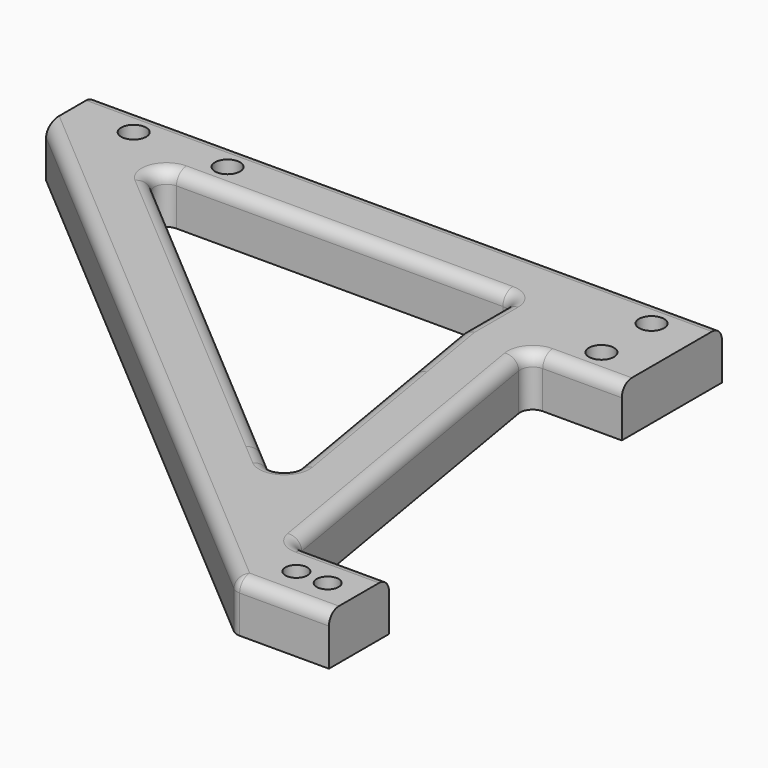
from build123d import *

# Parameters (mm, degrees)
F0_R      = 2
F1_DEPTH  = 10
F2_R      = 5
F4_R      = 2
F5_DEPTH  = 10
F7_R      = 5
F7_2_R    = 5
F8_R      = 2
F8_2_R    = 2
F10_DEPTH = 25
F11_R     = 1.5
F12_R     = 1.75
F13_DEPTH = 12.5
F15_W     = 9
F15_H     = 20
F16_DEPTH = 10
F17_W     = 6
F17_H     = 20
F18_DEPTH = 25
F21_R     = 2
F22_DEPTH = 30
F24_R     = 2
F25_DEPTH = 12.5
F27_R     = 2
F28_R     = 2
F29_DEPTH = 8
F30_R     = 2
F31_R     = 2
F32_R     = 1.75
F33_DEPTH = 25
F32_R_2   = 2
F37_ANGLE = 90
F40_W     = 60
F40_H     = 10
F40_R     = 2
F41_DEPTH = 8
F43_R     = 1.5


with BuildPart() as f1:
    # F0 (on Top) → F1 (new body)
    with BuildSketch(Plane.XY):
        Polygon((0, 70), (0, 75), (-20, 75), (-30, 75), (-50, -75), (-40, -75), (0, -75), (0, -65), (-38.6666666667, -65), (-30.8, -6), (0, -6), (0, 0), (0, 6), (-29.2, 6), (-21.3333333333, 65), (0, 65), align=None)
        with Locations((-15, 0)):
            Circle(F0_R, mode=Mode.SUBTRACT)
        with Locations((-10.4101235047, 70)):
            Circle(F0_R, mode=Mode.SUBTRACT)
    extrude(amount=F1_DEPTH)

    # F2
    f2_edges = [f1.edges().sort_by_distance(p)[0] for p in [
        (-21.333333, 65, 5),
        (-30.8, -6, 5),
        (-29.2, 6, 5),
        (-38.666667, -65, 5),
        (-50, -75, 5),
    ]]
    fillet(f2_edges, radius=F2_R)

    # F3: F1 across plane


with BuildPart() as f1_1:
    add(f1.part)
    add(f1.part.mirror(Plane.YZ))

    # F4 (on Top) → F5 (join)
    with BuildSketch(Plane.XY):
        with BuildLine():
            Line((0, 80), (0, 75))
            Line((0, 75), (10, 75))
            Line((10, 75), (30, 75))
            Line((30, 75), (13.3333333333, 200))
            Line((13.3333333333, 200), (4.5, 200))
            Line((4.5, 200), (4.5, 192))
            ThreePointArc((4.5, 192), (3.1819805153, 188.8180194847), (0, 187.5))
            Line((0, 187.5), (0, 170.1721444783))
            Line((0, 170.1721444783), (7.3103807362, 170.1721444783))
            Line((7.3103807362, 170.1721444783), (10, 150))
            Line((10, 150), (18.6666666667, 85))
            Line((18.6666666667, 85), (10, 85))
            Line((10, 85), (0, 85))
            Line((0, 85), (0, 80))
        make_face()
        with Locations((10, 80)):
            Circle(F4_R, mode=Mode.SUBTRACT)
    extrude(amount=F5_DEPTH)


with BuildPart() as f6_1:
    # F6: instance of F1
    add(f1_1.part.mirror(Plane.YZ))

    # F7
    f7_edges = [f6_1.edges().sort_by_distance(p)[0] for p in [
        (-7.310381, 170.172144, 5),
        (-18.666667, 85, 5),
        (-13.333333, 200, 5),
    ]]
    fillet(f7_edges, radius=F7_R)

    # F8#2
    f8_2_edges = [f6_1.edges().sort_by_distance(p)[0] for p in [
        (-4.5, 200, 5),
    ]]
    fillet(f8_2_edges, radius=F8_2_R)


with BuildPart() as f1_2:
    add(f1_1.part)

    # F7#2
    f7_2_edges = [f1_2.edges().sort_by_distance(p)[0] for p in [
        (7.310381, 170.172144, 5),
        (18.666667, 85, 5),
        (13.333333, 200, 5),
    ]]
    fillet(f7_2_edges, radius=F7_2_R)

    # F8
    f8_edges = [f1_2.edges().sort_by_distance(p)[0] for p in [
        (4.5, 200, 5),
    ]]
    fillet(f8_edges, radius=F8_R)

    add(f6_1.part)  # F10 merges F6_1
    # F9 (on Top) → F10 (join)
    with BuildSketch(Plane.XY):
        Polygon((0, -6), (0, 0), (0, 6), (-6, 6), (-6, -6), align=None)
    extrude(amount=F10_DEPTH)

    # F11
    f11_edges = [f1_2.edges().sort_by_distance(p)[0] for p in [
        (-6, -6, 17.5),
        (-6, 0, 25),
        (-3, -6, 25),
        (-6, 6, 17.5),
        (-3, 6, 25),
    ]]
    fillet(f11_edges, radius=F11_R)


with BuildPart() as f13:
    # F12 (on Right) → F13 (new body, symmetric)
    with BuildSketch(Plane.YZ):
        with Locations((0, 20)):
            Circle(F12_R)
    extrude(amount=F13_DEPTH, both=True)


with BuildPart() as f13b:
    # F12 (on Right) → F13, piece 2 (new body, symmetric)
    with BuildSketch(Plane.YZ):
        with Locations((0, 15)):
            Circle(F12_R)
    extrude(amount=F13_DEPTH, both=True)


with BuildPart() as f1_3:
    add(f1_2.part)

    # F14: cut F13b, F13
    add(f13b.part, mode=Mode.SUBTRACT)
    add(f13.part, mode=Mode.SUBTRACT)


with BuildPart() as f16:
    # F15 (on Top) → F16 (new body)
    with BuildSketch(Plane.XY):
        Polygon((0, 65), (15, 65), (15, 85), (0, 85), (0, 75), align=None)
        Polygon((-6, 65), (0, 65), (0, 75), (0, 85), (-6, 85), align=None)
        with Locations((-10.5, 75)):
            Rectangle(F15_W, F15_H)
    extrude(amount=F16_DEPTH)


with BuildPart() as f18:
    # F17 (on Top) → F18 (new body)
    with BuildSketch(Plane.XY):
        with Locations((-3, 75)):
            Rectangle(F17_W, F17_H)
    extrude(amount=F18_DEPTH)


with BuildPart() as f16_1:
    add(f16.part)

    # F19: union F18
    add(f18.part)


with BuildPart() as f16_2:
    # F20: moved
    add(f16_1.part.moved(Location((0, 0, 10))))


with BuildPart() as f22:
    # F21 (on Top) → F22 (new body)
    with BuildSketch(Plane.XY):
        with Locations((-10, 80)):
            Circle(F21_R)
    extrude(amount=F22_DEPTH)


with BuildPart() as f22b:
    # F21 (on Top) → F22, piece 2 (new body)
    with BuildSketch(Plane.XY):
        with Locations((10, 80)):
            Circle(F21_R)
    extrude(amount=F22_DEPTH)


with BuildPart() as f22c:
    # F21 (on Top) → F22, piece 3 (new body)
    with BuildSketch(Plane.XY):
        with Locations((-10.4, 70)):
            Circle(F21_R)
    extrude(amount=F22_DEPTH)


with BuildPart() as f22d:
    # F21 (on Top) → F22, piece 4 (new body)
    with BuildSketch(Plane.XY):
        with Locations((10.4, 70)):
            Circle(F21_R)
    extrude(amount=F22_DEPTH)


with BuildPart() as f16_3:
    add(f16_2.part)

    # F23: cut F22d, F22c, F22b, F22
    add(f22d.part, mode=Mode.SUBTRACT)
    add(f22c.part, mode=Mode.SUBTRACT)
    add(f22b.part, mode=Mode.SUBTRACT)
    add(f22.part, mode=Mode.SUBTRACT)


with BuildPart() as f25:
    # F24 (on Right) → F25 (new body, symmetric)
    with BuildSketch(Plane.YZ):
        with Locations((80, 27.2266920656)):
            Circle(F24_R)
    extrude(amount=F25_DEPTH, both=True)


with BuildPart() as f25b:
    # F24 (on Right) → F25, piece 2 (new body, symmetric)
    with BuildSketch(Plane.YZ):
        with Locations((70, 27.2266920656)):
            Circle(F24_R)
    extrude(amount=F25_DEPTH, both=True)


with BuildPart() as f16_4:
    add(f16_3.part)

    # F26: cut F25b, F25
    add(f25b.part, mode=Mode.SUBTRACT)
    add(f25.part, mode=Mode.SUBTRACT)

    # F27
    f27_edges = [f16_4.edges().sort_by_distance(p)[0] for p in [
        (-6, 65, 27.5),
        (-3, 65, 35),
        (-10.5, 65, 20),
        (-15, 65, 15),
        (7.5, 65, 20),
        (15, 65, 15),
        (15, 75, 10),
        (-15, 75, 10),
        (-6, 75, 35),
        (-10.5, 85, 20),
        (-15, 85, 15),
        (-6, 85, 27.5),
        (-3, 85, 35),
        (7.5, 85, 20),
        (15, 85, 15),
    ]]
    fillet(f27_edges, radius=F27_R)


with BuildPart() as f29:
    # F28 (on Right) → F29 (new body)
    with BuildSketch(Plane.YZ):
        Polygon((-6, 10), (0, 10), (6, 10), (6, 25), (65, 35), (65, 20), (75, 20), (85, 20), (85, 35), (85, 120), (75, 120), (-6, 25), align=None)
        Polygon((17.4430621123, 37.0821219176), (23.9249371816, 44.6843210729), (75, 104.5871725266), (75, 45), (64.1585427985, 45), (51.9163602293, 42.9250538018), align=None, mode=Mode.SUBTRACT)
        with Locations((80, 95)):
            Circle(F28_R, mode=Mode.SUBTRACT)
        with Locations((80, 110)):
            Circle(F28_R, mode=Mode.SUBTRACT)
    extrude(amount=F29_DEPTH)

    # F30
    f30_edges = [f29.edges().sort_by_distance(p)[0] for p in [
        (4, 75, 104.587173),
        (4, 75, 45),
        (4, 17.443062, 37.082122),
        (4, 65, 35),
        (4, 6, 25),
        (4, -6, 25),
    ]]
    fillet(f30_edges, radius=F30_R)

    # F31
    f31_edges = [f29.edges().sort_by_distance(p)[0] for p in [
        (8, 46.246648, 70.864105),
        (8, 34.73905, 72.780367),
        (8, 35.165784, 29.943353),
        (8, 85, 70),
    ]]
    fillet(f31_edges, radius=F31_R)


with BuildPart() as f33:
    # F32 (on Right) → F33 (new body)
    with BuildSketch(Plane.YZ):
        with Locations((0, 20)):
            Circle(F32_R)
    extrude(amount=F33_DEPTH)


with BuildPart() as f33b:
    # F32 (on Right) → F33, piece 2 (new body)
    with BuildSketch(Plane.YZ):
        with Locations((0, 15)):
            Circle(F32_R)
    extrude(amount=F33_DEPTH)


with BuildPart() as f33c:
    # F32 (on Right) → F33, piece 3 (new body)
    with BuildSketch(Plane.YZ):
        with Locations((70, 27.25)):
            Circle(F32_R_2)
    extrude(amount=F33_DEPTH)


with BuildPart() as f33d:
    # F32 (on Right) → F33, piece 4 (new body)
    with BuildSketch(Plane.YZ):
        with Locations((80, 27.25)):
            Circle(F32_R_2)
    extrude(amount=F33_DEPTH)


with BuildPart() as f29_1:
    add(f29.part)

    # F34: cut F33d, F33c, F33b, F33
    add(f33d.part, mode=Mode.SUBTRACT)
    add(f33c.part, mode=Mode.SUBTRACT)
    add(f33b.part, mode=Mode.SUBTRACT)
    add(f33.part, mode=Mode.SUBTRACT)


with BuildPart() as f29_2:
    # F37: moved
    add(f29_1.part.rotate(Axis((0, -39.3833108246, 0), (0, -1, 0)), F37_ANGLE))


with BuildPart() as f29_3:
    # F38: moved
    add(f29_2.part.moved(Location((120, -60, 0))))


with BuildPart() as f39_1:
    # F39: instance of F29
    add(f29_3.part.mirror(Plane.YZ))


with BuildPart() as f41:
    # F40 (on Top) → F41 (new body)
    with BuildSketch(Plane.XY):
        with Locations((0, 20)):
            Rectangle(F40_W, F40_H)
        with Locations((-25, 20)):
            Circle(F40_R, mode=Mode.SUBTRACT)
        with Locations((-10, 20)):
            Circle(F40_R, mode=Mode.SUBTRACT)
        with Locations((10, 20)):
            Circle(F40_R, mode=Mode.SUBTRACT)
        with Locations((25, 20)):
            Circle(F40_R, mode=Mode.SUBTRACT)
    extrude(amount=F41_DEPTH)


with BuildPart() as f41_1:
    # F42: moved
    add(f41.part.moved(Location((0, 0, 8))))

    # F43
    f43_edges = [f41_1.edges().sort_by_distance(p)[0] for p in [
        (0, 15, 8),
        (30, 15, 12),
        (30, 25, 12),
        (30, 20, 8),
        (-30, 20, 8),
        (-30, 15, 12),
        (-30, 25, 12),
        (0, 25, 8),
    ]]
    fillet(f43_edges, radius=F43_R)


with BuildPart() as f29_4:
    # F45: moved
    add(f29_3.part.moved(Location((-50, 0, 0))))


solid = f29_4.part
